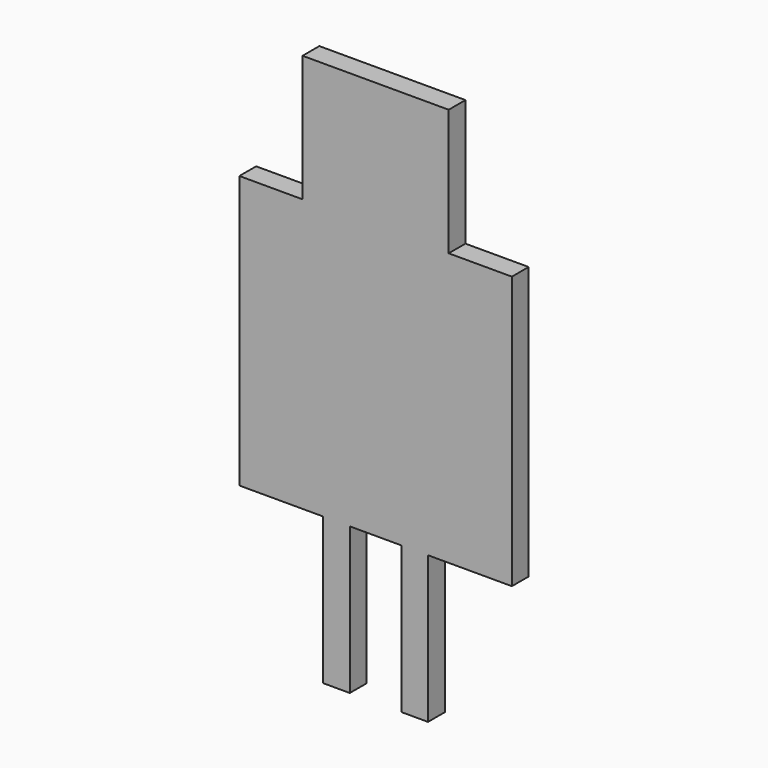
from build123d import *

# Parameters (mm, degrees)
F0_W     = 44.2640645027
F0_H     = 38.2859354973
F1_DEPTH = 6.35


with BuildPart() as f1:
    # F0 (on Front) → F1 (new body)
    with BuildSketch(Plane.XZ):
        Polygon((41.275, -41.275), (41.275, 41.275), (22.1320322514, 41.275), (-22.1320322514, 41.275), (-41.275, 41.275), (-41.275, -41.275), (-15.875, -41.275), (-7.8206129843, -41.275), (7.8206129843, -41.275), (15.875, -41.275), align=None)
        with Locations((0, 60.4179677486)):
            Rectangle(F0_W, F0_H)
        Polygon((15.875, -85.725), (15.875, -41.275), (7.8206129843, -41.275), (7.8206129843, -85.5907460871), (7.8206129843, -85.725), align=None)
        Polygon((-7.8206129843, -85.5907460871), (-7.8206129843, -41.275), (-15.875, -41.275), (-15.875, -85.725), (-7.8206129843, -85.725), align=None)
    extrude(amount=F1_DEPTH)


solid = f1.part
